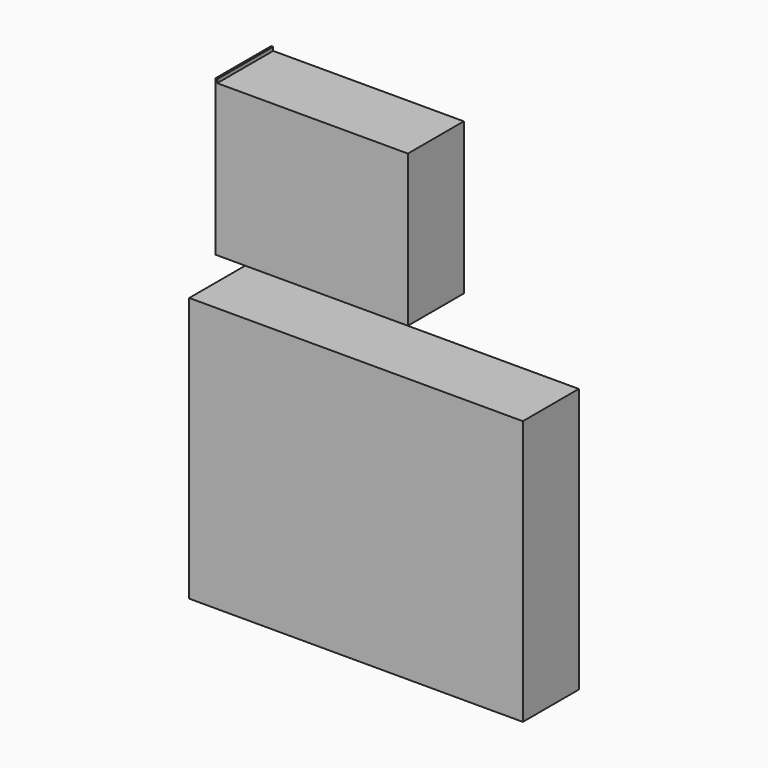
from build123d import *

# Parameters (mm, degrees)
F0_W     = 69.257006
F0_H     = 55.082165
F1_DEPTH = 25.4
F4_DEPTH = 25.4


with BuildPart() as f1:
    # F0 (on Front) → F1 (new body)
    with BuildSketch(Plane.XZ):
        Polygon((-69.991261, 0), (-69.257006, 0), (-69.257006, 55.082165), (-69.257006, 56.384839), (-69.991261, 56.384839), align=None)
        with Locations((-34.628503, 27.541082)):
            Rectangle(F0_W, F0_H)
    extrude(amount=F1_DEPTH)


with BuildPart() as f4:
    # F3 (on face) → F4 (new body)
    with BuildSketch(Plane.XZ.offset(25.4)):
        Polygon((0, 0), (-59.12362, 0), (-59.12362, -96.206225), (62.09724, -96.206225), (62.09724, 0), align=None)
    extrude(amount=F4_DEPTH)


solid = Compound([f1.part, f4.part])
